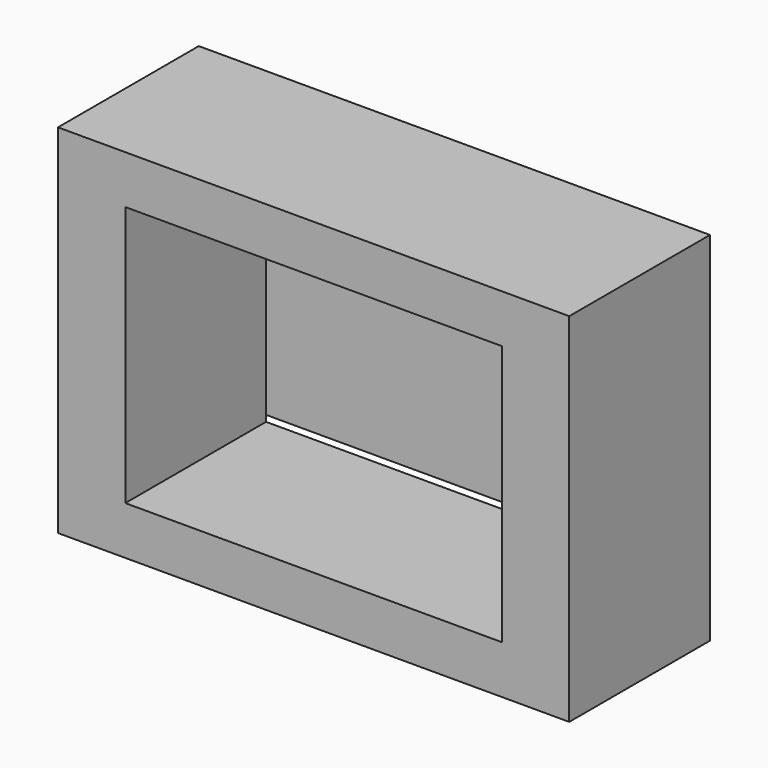
from build123d import *

# Parameters (mm, degrees)
F2_DEPTH = 25.4
F1_W     = 54.578096
F1_H     = 35.858974
F3_DEPTH = 10.922


with BuildPart() as f2:
    # F0 (on Front) → F2 (new body)
    with BuildSketch(Plane.XZ):
        Polygon((-27.186861, 18.81372), (-36.903838, 25.784337), (-36.903838, -25.784337), (-27.186861, -18.81372), align=None)
        Polygon((36.903838, 25.784337), (-36.903838, 25.784337), (-27.186861, 18.81372), (27.186861, 18.81372), align=None)
        Polygon((36.903838, -25.784337), (36.903838, 25.784337), (27.186861, 18.81372), (27.186861, -18.81372), align=None)
        Polygon((-27.186861, -18.81372), (-36.903838, -25.784337), (36.903838, -25.784337), (27.186861, -18.81372), align=None)
    extrude(amount=F2_DEPTH)

    # F1 (on Front) → F3 (join)
    with BuildSketch(Plane.XZ):
        Rectangle(F1_W, F1_H)
    extrude(amount=-F3_DEPTH)


solid = f2.part
